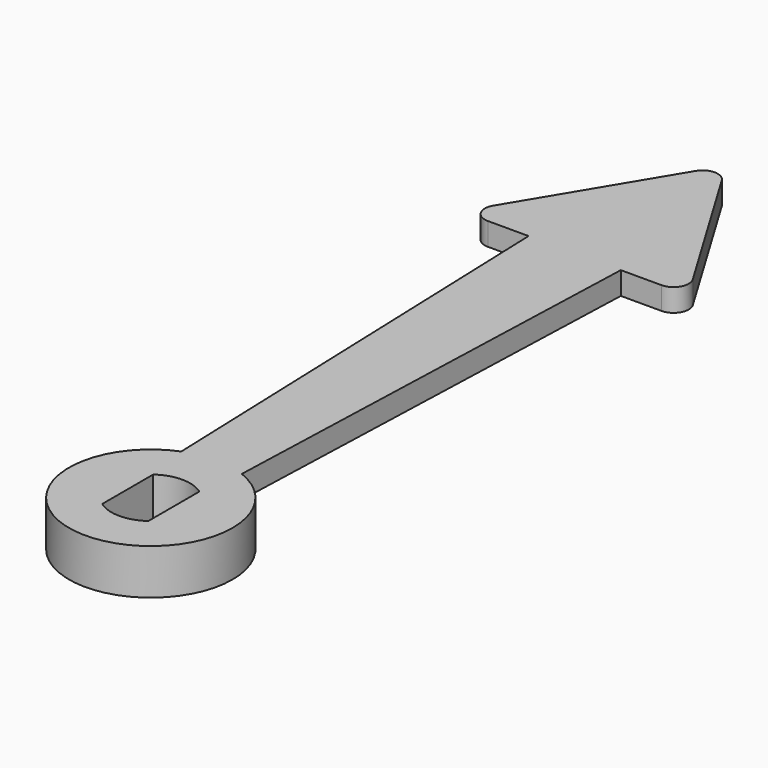
from build123d import *

# Parameters (mm, degrees)
F0_R     = 5.4
F1_DEPTH = 1.5
F3_DEPTH = 1.5
F6_DEPTH = 1.5
F7_R     = 1


with BuildPart() as f1:
    # F0 (on Top) → F1 (new body, symmetric)
    with BuildSketch(Plane.XY):
        Circle(F0_R)
        with BuildLine():
            ThreePointArc((1.525, 2.105796), (2.315707, 1.182159), (2.6, 0))
            ThreePointArc((2.6, 0), (2.315707, -1.182159), (1.525, -2.105796))
            ThreePointArc((1.525, -2.105796), (0, -2.6), (-1.525, -2.105796))
            ThreePointArc((-1.525, -2.105796), (-2.6, 0), (-1.525, 2.105796))
            ThreePointArc((-1.525, 2.105796), (0, 2.6), (1.525, 2.105796))
        make_face(mode=Mode.SUBTRACT)
        with BuildLine():
            Line((-1.525, -2.105796), (-1.525, 2.105796))
            ThreePointArc((-1.525, 2.105796), (-2.6, 0), (-1.525, -2.105796))
        make_face()
        with BuildLine():
            ThreePointArc((1.525, -2.105796), (2.315707, -1.182159), (2.6, 0))
            ThreePointArc((2.6, 0), (2.315707, 1.182159), (1.525, 2.105796))
            Line((1.525, 2.105796), (1.525, -2.105796))
        make_face()
    extrude(amount=F1_DEPTH, both=True)

    # F2 (on Top) → F3 (join, through all)
    with BuildSketch(Plane.XY):
        Polygon((-2, 5.015974), (0, 5.015974), (2, 5.015974), (3.047065, 35), (0, 35), (-3.047065, 35), align=None)
    extrude(amount=F3_DEPTH)

    # F5 (on Top) → F6 (join, through all)
    with BuildSketch(Plane.XY):
        Polygon((0, 47.5), (-7.5, 35), (7.5, 35), align=None)
    extrude(amount=F6_DEPTH)

    # F7
    f7_edges = [f1.edges().sort_by_distance(p)[0] for p in [
        (0, 47.5, 0.75),
        (-7.5, 35, 0.75),
        (7.5, 35, 0.75),
    ]]
    fillet(f7_edges, radius=F7_R)


solid = f1.part
